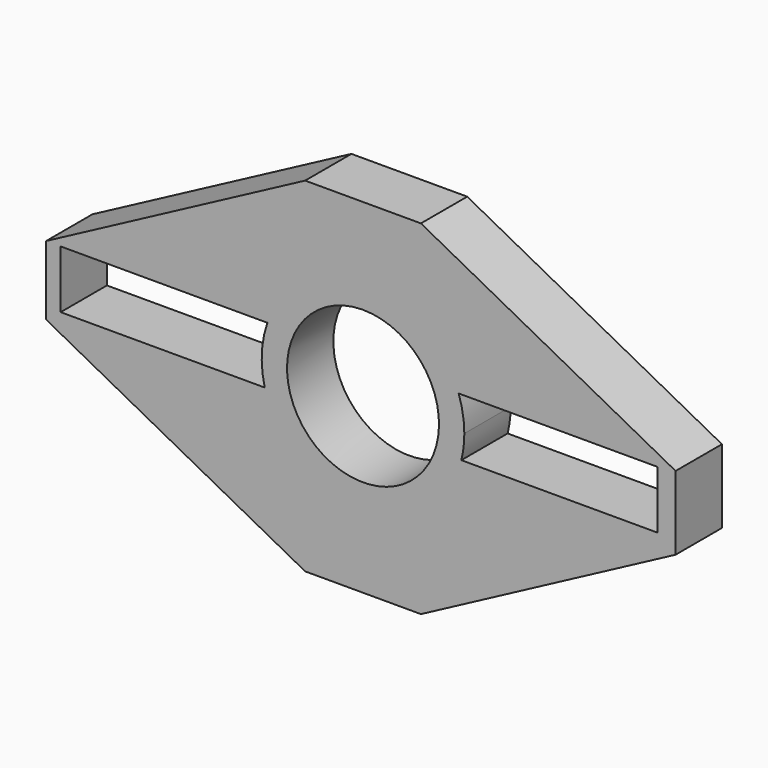
from build123d import *

# Parameters (mm, degrees)
F0_W     = 276.225
F0_H     = 150.9410084384
F1_DEPTH = 25.4
F3_DEPTH = 25.4


with BuildPart() as f1:
    # F0 (on Front) → F1 (new body)
    with BuildSketch(Plane.XZ):
        Rectangle(F0_W, F0_H)
    extrude(amount=F1_DEPTH)

    # F2 (on face) → F3 (cut)
    with BuildSketch(Plane.XZ.offset(25.4)):
        Polygon((-138.1125, 15.167717062), (-24.4453392207, 75.4705042192), (-138.1125, 75.4705042192), align=None)
        Polygon((-138.1125, -75.4705042192), (-24.4453392207, -75.4705042192), (-138.1125, -15.167717062), align=None)
        Polygon((138.1125, 75.4705042192), (26.3546607793, 75.4705042192), (138.1125, 16.1806517634), align=None)
        Polygon((138.1125, -16.1806517634), (26.3546607793, -75.4705042192), (138.1125, -75.4705042192), align=None)
        with BuildLine():
            Line((0.9546607793, -32.84869415), (0.9546607793, 33.82630585))
            ThreePointArc((0.9546607793, 33.82630585), (0.6912380103, 33.8252650905), (0.4278316888, 33.822142877))
            ThreePointArc((0.4278316888, 33.822142877), (-32.3817984612, 0.225383081), (0.9546607793, -32.84869415))
        make_face()
        with BuildLine():
            ThreePointArc((0.9546607793, -32.84869415), (24.5278330971, -23.0843664678), (34.2921607793, 0.48880585))
            ThreePointArc((34.2921607793, 0.48880585), (24.5278330971, 24.0619781678), (0.9546607793, 33.82630585))
            Line((0.9546607793, 33.82630585), (0.9546607793, -32.84869415))
        make_face()
        with BuildLine():
            Line((-131.7264735699, -10.232282938), (-42.1830345138, -10.232282938))
            ThreePointArc((-42.1830345138, -10.232282938), (-43.4473379757, 2.5539950823), (-41.0016506128, 15.167717062))
            Line((-41.0016506128, 15.167717062), (-131.7264735699, 15.167717062))
            Line((-131.7264735699, 15.167717062), (-131.7264735699, -10.232282938))
        make_face()
        with BuildLine():
            Line((130.1703900099, 15.167717062), (42.9109721714, 15.167717062))
            ThreePointArc((42.9109721714, 15.167717062), (44.7768043906, 7.9334166062), (45.4046607793, 0.48880585))
            ThreePointArc((45.4046607793, 0.48880585), (45.0753648522, -4.9117470949), (44.0923560724, -10.232282938))
            Line((44.0923560724, -10.232282938), (130.1703900099, -10.232282938))
            Line((130.1703900099, -10.232282938), (130.1703900099, 15.167717062))
        make_face()
    extrude(amount=-F3_DEPTH, mode=Mode.SUBTRACT)


solid = f1.part
